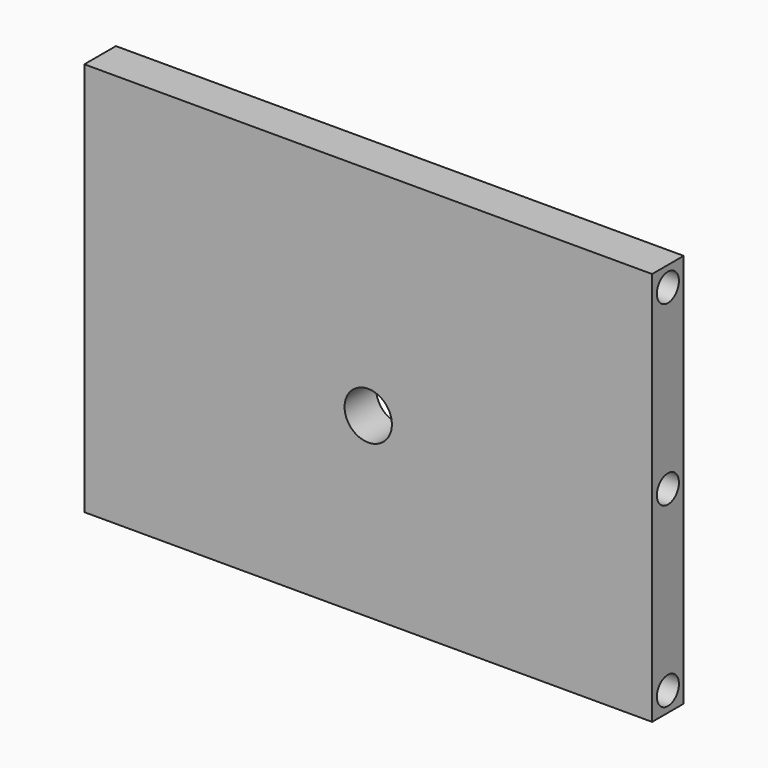
from build123d import *

# Parameters (mm, degrees)
F0_W     = 72
F0_H     = 50
F0_R     = 3
F1_DEPTH = 5
F2_R     = 1.75
F3_DEPTH = 25
F4_R     = 1.75
F5_DEPTH = 25


with BuildPart() as f1:
    # F0 (on Front) → F1 (new body)
    with BuildSketch(Plane.XZ):
        Rectangle(F0_W, F0_H)
        with Locations((0, -2.52)):
            Circle(F0_R, mode=Mode.SUBTRACT)
    extrude(amount=F1_DEPTH)

    # F2 (on face) → F3 (cut)
    with BuildSketch(Plane(origin=(-36, 0, 0), x_dir=(0, -1, 0), z_dir=(-1, 0, 0))):
        with Locations((2.5, 22.5)):
            Circle(F2_R)
        with Locations((2.5, -22.5)):
            Circle(F2_R)
        with Locations((2.5, 0)):
            Circle(F2_R)
    extrude(amount=-F3_DEPTH, mode=Mode.SUBTRACT)

    # F4 (on face) → F5 (cut)
    with BuildSketch(Plane.YZ.offset(36)):
        with Locations((-2.5, 0)):
            Circle(F4_R)
        with Locations((-2.5, 22.5)):
            Circle(F4_R)
        with Locations((-2.5, -22.5)):
            Circle(F4_R)
    extrude(amount=-F5_DEPTH, mode=Mode.SUBTRACT)


solid = f1.part
